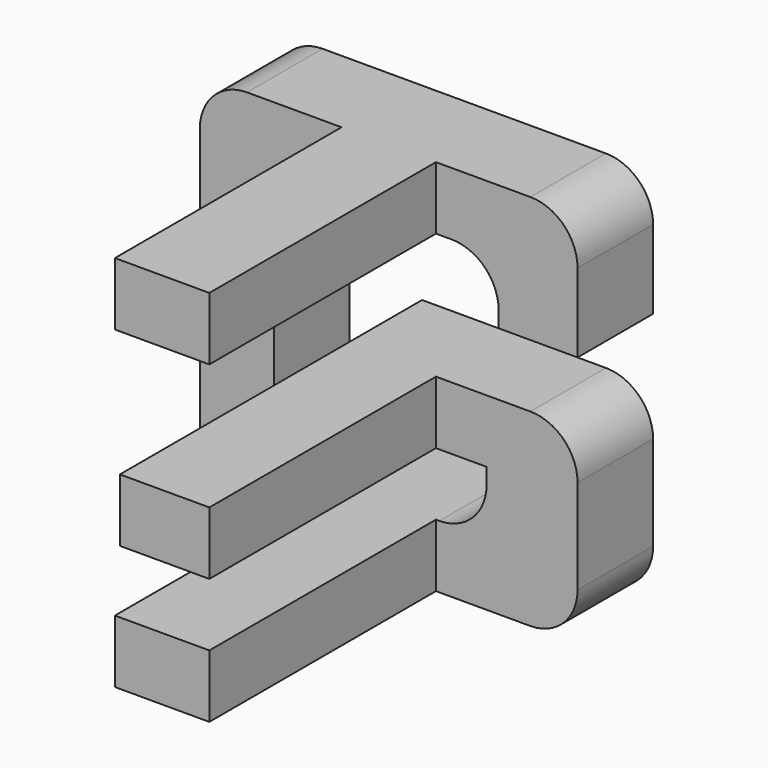
from build123d import *

# Parameters (mm, degrees)
F0_W     = 40
F0_H     = 40
F1_DEPTH = 20
F3_DEPTH = 20
F6_DEPTH = 20


with BuildPart() as f1:
    # F0 (on Top) → F1 (new body, symmetric)
    with BuildSketch(Plane.XY):
        Rectangle(F0_W, F0_H)
    extrude(amount=F1_DEPTH, both=True)

    # F2 (on Top) → F3 (intersect, symmetric)
    with BuildSketch(Plane.XY):
        Polygon((20, 20), (-20, 20), (-20, 10), (-5, 10), (-5, -20), (5, -20), (5, 10), (20, 10), align=None)
    extrude(amount=F3_DEPTH, both=True, mode=Mode.INTERSECT)

    # F5 (on Front) → F6 (intersect, symmetric)
    with BuildSketch(Plane.XZ):
        with BuildLine():
            Line((15, 20), (-15, 20))
            ThreePointArc((-15, 20), (-18.535534, 18.535534), (-20, 15))
            Line((-20, 15), (-20, -15))
            ThreePointArc((-20, -15), (-18.535534, -18.535534), (-15, -20))
            Line((-15, -20), (15, -20))
            ThreePointArc((15, -20), (18.535534, -18.535534), (20, -15))
            Line((20, -15), (20, -5))
            ThreePointArc((20, -5), (18.535534, -1.464466), (15, 0))
            Line((15, 0), (-4.470152, 0))
            Line((-4.470152, 0), (-4.470152, -6.666667))
            Line((-4.470152, -6.666667), (10.365012, -6.666667))
            Line((10.365012, -6.666667), (10.365012, -8.333333))
            ThreePointArc((10.365012, -8.333333), (8.900546, -11.868867), (5.365012, -13.333333))
            Line((5.365012, -13.333333), (-7.16246, -13.333333))
            ThreePointArc((-7.16246, -13.333333), (-10.697994, -11.868867), (-12.16246, -8.333333))
            Line((-12.16246, -8.333333), (-12.16246, 8.333333))
            ThreePointArc((-12.16246, 8.333333), (-10.697994, 11.868867), (-7.16246, 13.333333))
            Line((-7.16246, 13.333333), (6.648352, 13.333333))
            ThreePointArc((6.648352, 13.333333), (10.183886, 11.868867), (11.648352, 8.333333))
            Line((11.648352, 8.333333), (11.648352, 6.666667))
            Line((11.648352, 6.666667), (20, 6.666667))
            Line((20, 6.666667), (20, 15))
            ThreePointArc((20, 15), (18.535534, 18.535534), (15, 20))
        make_face()
    extrude(amount=F6_DEPTH, both=True, mode=Mode.INTERSECT)


solid = f1.part
